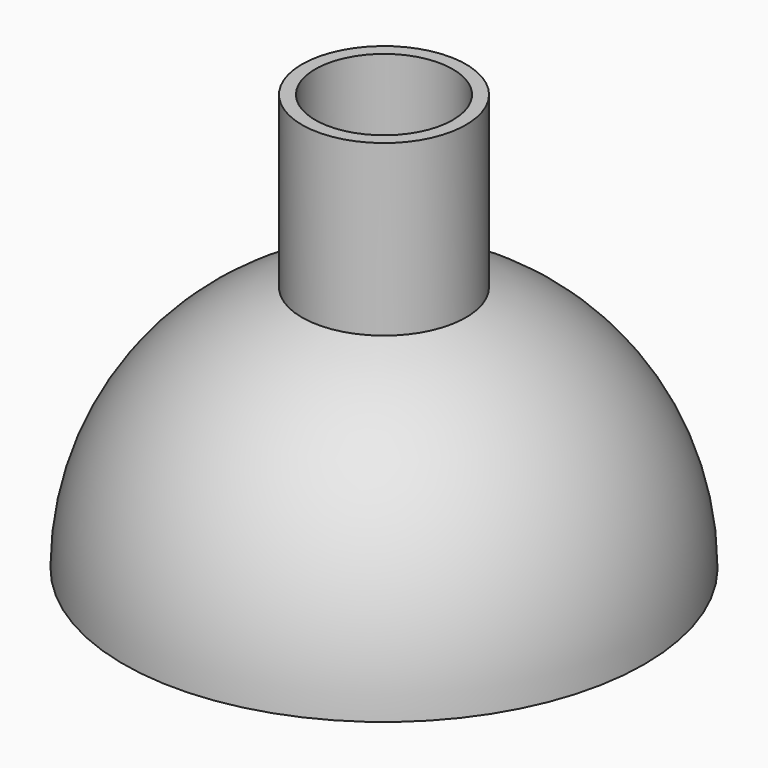
from build123d import *

# Parameters (mm, degrees)
F0_W     = 7.874
F0_H     = 15
F2_R     = 6.604
F3_DEPTH = 45.7916


with BuildPart() as f1:
    # F0 (on Front) → F1 (revolve)
    with BuildSketch(Plane.XZ):
        with Locations((-3.937, 32.5)):
            Rectangle(F0_W, F0_H)
        with BuildLine():
            Line((0, 0), (0, 25))
            ThreePointArc((0, 25), (-3.9880702595, 24.6798560694), (-7.874, 23.7276236484))
            Line((-7.874, 23.7276236484), (-7.874, 0))
            Line((-7.874, 0), (0, 0))
        make_face()
        with BuildLine():
            Line((-7.874, 0), (-7.874, 23.7276236484))
            ThreePointArc((-7.874, 23.7276236484), (-20.2712851097, 14.631302061), (-25, 0))
            Line((-25, 0), (-7.874, 0))
        make_face()
        with BuildLine():
            ThreePointArc((-7.874, 23.7276236484), (-3.9880702595, 24.6798560694), (0, 25))
            Line((0, 25), (-7.874, 25))
            Line((-7.874, 25), (-7.874, 23.7276236484))
        make_face()
    revolve(axis=Axis((0, 0, 20), (0, 0, 1)))

    # F2 (on face) → F3 (cut)
    with BuildSketch(Plane.XY.offset(40)):
        Circle(F2_R)
    extrude(amount=-F3_DEPTH, mode=Mode.SUBTRACT)


solid = f1.part
